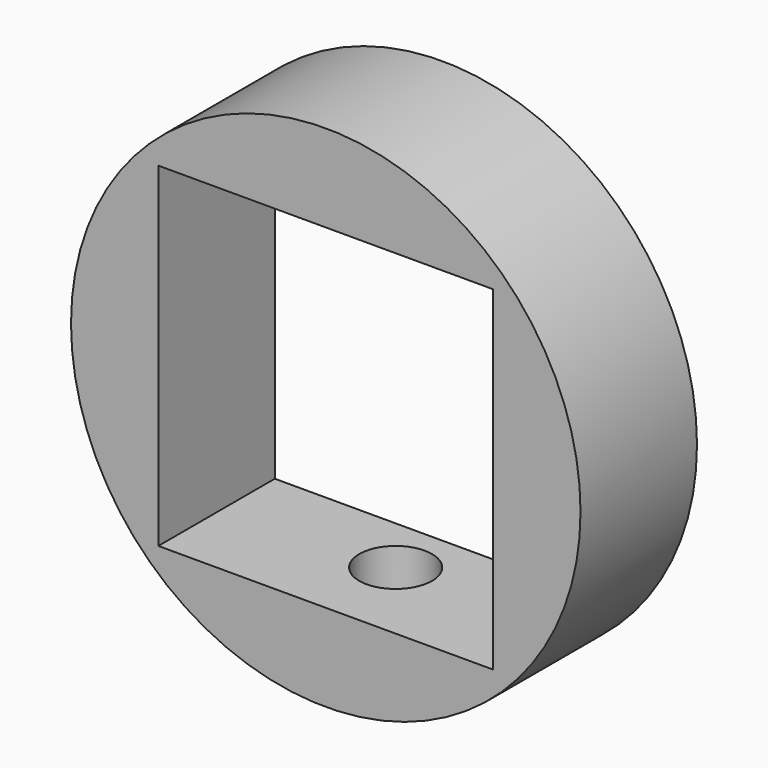
from build123d import *

# Parameters (mm, degrees)
F0_R     = 17.5
F0_W     = 23
F0_H     = 23
F1_DEPTH = 10
F2_R     = 1.5
F3_DEPTH = 25
F4_R     = 2.5
F5_DEPTH = 4


with BuildPart() as f1:
    # F0 (on Front) → F1 (new body)
    with BuildSketch(Plane.XZ):
        Circle(F0_R)
        Rectangle(F0_W, F0_H, mode=Mode.SUBTRACT)
    extrude(amount=F1_DEPTH)

    # F2 (on Top) → F3 (cut)
    with BuildSketch(Plane.XY):
        with Locations((0, -4)):
            Circle(F2_R)
    extrude(amount=-F3_DEPTH, mode=Mode.SUBTRACT)

    # F4 (on face) → F5 (cut)
    with BuildSketch(Plane.XY.offset(-11.5)):
        with Locations((0, -4)):
            Circle(F4_R)
    extrude(amount=-F5_DEPTH, mode=Mode.SUBTRACT)


solid = f1.part
